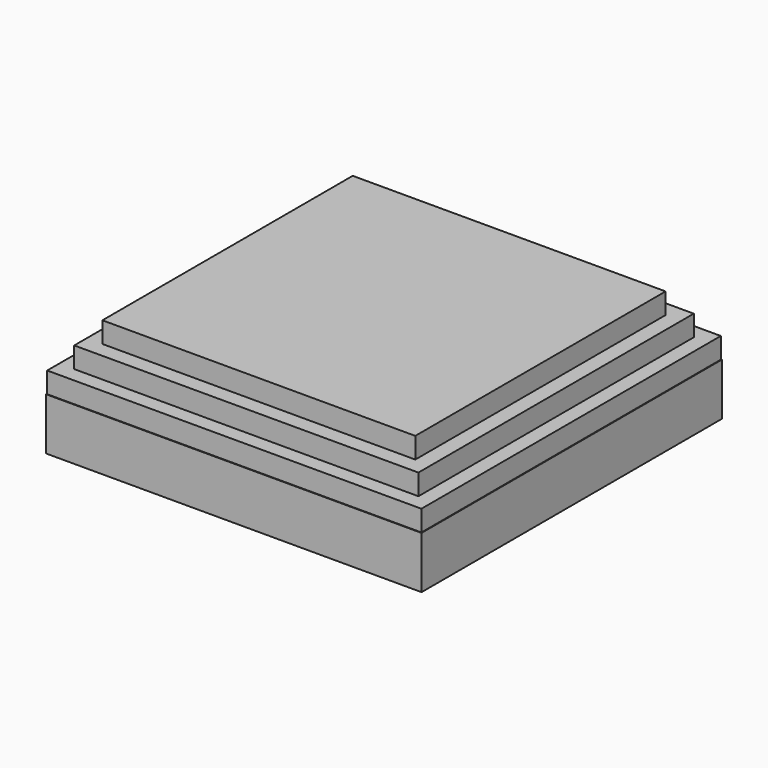
from build123d import *

# Parameters (mm, degrees)
F0_W     = 63.5
F0_H     = 63.5
F0_W_2   = 57.15
F0_H_2   = 57.15
F0_W_3   = 50.8
F0_H_3   = 50.8
F1_DEPTH = 16.9333333333
F0_W_4   = 69.85
F0_H_4   = 69.85
F2_DEPTH = 12.7
F0_W_5   = 75.946
F0_H_5   = 75.946
F3_DEPTH = 8.4666666667
F0_W_6   = 76.2
F0_H_6   = 76.2
F4_DEPTH = 4.2333333333
F5_DEPTH = 6.35


with BuildPart() as f1:
    # F0 (on Top) → F1 (new body)
    with BuildSketch(Plane.XY):
        Rectangle(F0_W, F0_H)
        Rectangle(F0_W_2, F0_H_2, mode=Mode.SUBTRACT)
        Rectangle(F0_W_2, F0_H_2)
        Rectangle(F0_W_3, F0_H_3, mode=Mode.SUBTRACT)
        Rectangle(F0_W_3, F0_H_3)
    extrude(amount=F1_DEPTH)

    # F0 (on Top) → F2 (join)
    with BuildSketch(Plane.XY):
        Rectangle(F0_W_4, F0_H_4)
        Rectangle(F0_W, F0_H, mode=Mode.SUBTRACT)
    extrude(amount=F2_DEPTH)

    # F0 (on Top) → F3 (join)
    with BuildSketch(Plane.XY):
        Rectangle(F0_W_5, F0_H_5)
        Rectangle(F0_W_4, F0_H_4, mode=Mode.SUBTRACT)
    extrude(amount=F3_DEPTH)

    # F0 (on Top) → F4 (join)
    with BuildSketch(Plane.XY):
        Rectangle(F0_W_6, F0_H_6)
        Rectangle(F0_W_5, F0_H_5, mode=Mode.SUBTRACT)
    extrude(amount=F4_DEPTH)

    # F5 (add): a face of the model
    f5_faces = [f1.faces().sort_by_distance(p)[0] for p in [
        (0, 0, 0),
    ]]
    extrude(f5_faces, amount=F5_DEPTH)


solid = f1.part
